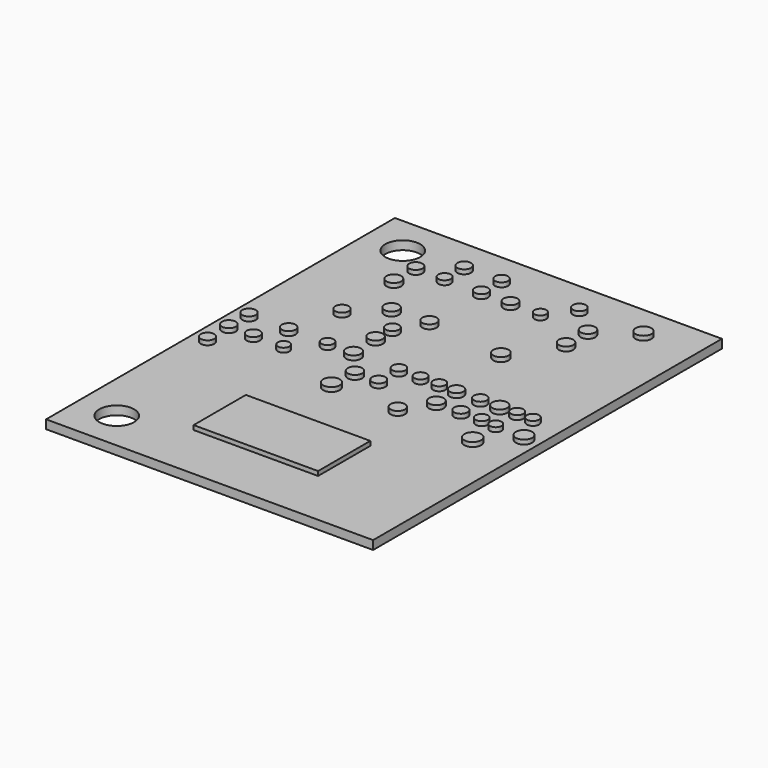
from build123d import *

# Parameters (mm, degrees)
F0_W     = 75
F0_H     = 100
F0_R     = 4
F1_DEPTH = 2
F2_R     = 1.523638
F2_R_2   = 1.567812
F2_R_3   = 1.559077
F2_R_4   = 1.322094
F2_R_5   = 1.567811
F2_R_6   = 1.402292
F2_R_7   = 1.701475
F2_R_8   = 1.652619
F2_R_9   = 1.523641
F2_R_10  = 1.884274
F2_R_11  = 1.652618
F2_R_12  = 1.685347
F2_R_13  = 1.411998
F2_R_14  = 1.478147
F2_R_15  = 1.478148
F2_R_16  = 1.523642
F2_R_17  = 1.725385
F2_R_18  = 1.411997
F2_R_19  = 1.332383
F2_R_20  = 1.927267
F2_R_21  = 1.869727
F2_R_22  = 1.421638
F2_R_23  = 1.756758
F2_R_24  = 1.627641
F2_R_25  = 1.49651
F2_R_26  = 1.660861
F2_R_27  = 1.66086
F2_R_28  = 1.421636
F2_R_29  = 1.559076
F2_R_30  = 1.478146
F2_R_31  = 1.587284
F2_R_32  = 1.332387
F2_R_33  = 1.487355
F2_R_34  = 1.660858
F2_R_35  = 1.652615
F2_R_36  = 1.81788
F3_DEPTH = 1
F4_W     = 28.54166
F4_H     = 14.979307
F5_DEPTH = 1


with BuildPart() as f1:
    # F0 (on Top) → F1 (new body)
    with BuildSketch(Plane.XY):
        Rectangle(F0_W, F0_H)
        with Locations((-28.5, -41)):
            Circle(F0_R, mode=Mode.SUBTRACT)
        with Locations((-28.5, 41)):
            Circle(F0_R, mode=Mode.SUBTRACT)
    extrude(amount=F1_DEPTH)

    # F2 (on face) → F3 (join)
    with BuildSketch(Plane.XY.offset(2)):
        with Locations((-33.796042, -8.345725)):
            Circle(F2_R)
        with Locations((-33.796042, -2.231038)):
            Circle(F2_R_2)
        with Locations((-33.796042, 3.553126)):
            Circle(F2_R_3)
        with Locations((-28.177142, -2.231038)):
            Circle(F2_R)
        with Locations((-21.236144, -2.231038)):
            Circle(F2_R_4)
        with Locations((-24.706643, 3.553126)):
            Circle(F2_R_5)
        with Locations((-15.782502, 3.553126)):
            Circle(F2_R_6)
        with Locations((-9.833077, 3.553126)):
            Circle(F2_R_7)
        with Locations((-4.875224, -2.231038)):
            Circle(F2_R_8)
        with Locations((0.578419, -2.231038)):
            Circle(F2_R_9)
        with Locations((-5.371009, -8.345725)):
            Circle(F2_R_10)
        with Locations((9.833081, -8.345725)):
            Circle(F2_R_11)
        with Locations((13.799365, -2.231038)):
            Circle(F2_R_12)
        with Locations((13.799365, 3.553126)):
            Circle(F2_R_3)
        with Locations((9.833081, 3.553126)):
            Circle(F2_R_6)
        with Locations((5.536273, 3.553126)):
            Circle(F2_R_13)
        with Locations((0.578419, 3.553126)):
            Circle(F2_R_14)
        with Locations((19.253004, 3.553126)):
            Circle(F2_R_15)
        with Locations((19.418268, -2.231038)):
            Circle(F2_R_16)
        with Locations((23.715075, 3.553126)):
            Circle(F2_R_17)
        with Locations((24.210861, -2.231038)):
            Circle(F2_R_18)
        with Locations((27.681356, -2.561562)):
            Circle(F2_R_19)
        with Locations((27.681356, -9.172035)):
            Circle(F2_R_20)
        with Locations((34.291834, -2.726824)):
            Circle(F2_R_21)
        with Locations((31.317115, 3.553126)):
            Circle(F2_R_6)
        with Locations((27.681356, 3.553126)):
            Circle(F2_R_22)
        with Locations((11.155175, 19.583523)):
            Circle(F2_R_23)
        with Locations((-6.693101, 21.401403)):
            Circle(F2_R_24)
        with Locations((-10.1636, 15.121453)):
            Circle(F2_R_25)
        with Locations((-10.328862, 10.494123)):
            Circle(F2_R_26)
        with Locations((-21.731928, 15.121453)):
            Circle(F2_R_3)
        with Locations((-15.121453, 21.070879)):
            Circle(F2_R_27)
        with Locations((-21.731928, 29.995019)):
            Circle(F2_R_12)
        with Locations((-21.731928, 36.27497)):
            Circle(F2_R)
        with Locations((-15.121453, 36.27497)):
            Circle(F2_R_28)
        with Locations((-15.121453, 41.89387)):
            Circle(F2_R_29)
        with Locations((-6.693101, 42.059135)):
            Circle(F2_R_30)
        with Locations((-6.693101, 36.27497)):
            Circle(F2_R)
        with Locations((0, 36.27497)):
            Circle(F2_R_31)
        with Locations((6.858371, 36.27497)):
            Circle(F2_R_32)
        with Locations((11.155175, 42.059135)):
            Circle(F2_R_33)
        with Locations((17.765649, 36.27497)):
            Circle(F2_R_34)
        with Locations((17.765649, 29.995019)):
            Circle(F2_R_35)
        with Locations((25.86348, 42.059135)):
            Circle(F2_R_36)
    extrude(amount=F3_DEPTH)

    # F4 (on face) → F5 (join)
    with BuildSketch(Plane.XY.offset(2)):
        with Locations((0, -29.250141)):
            Rectangle(F4_W, F4_H)
    extrude(amount=F5_DEPTH)


solid = f1.part
